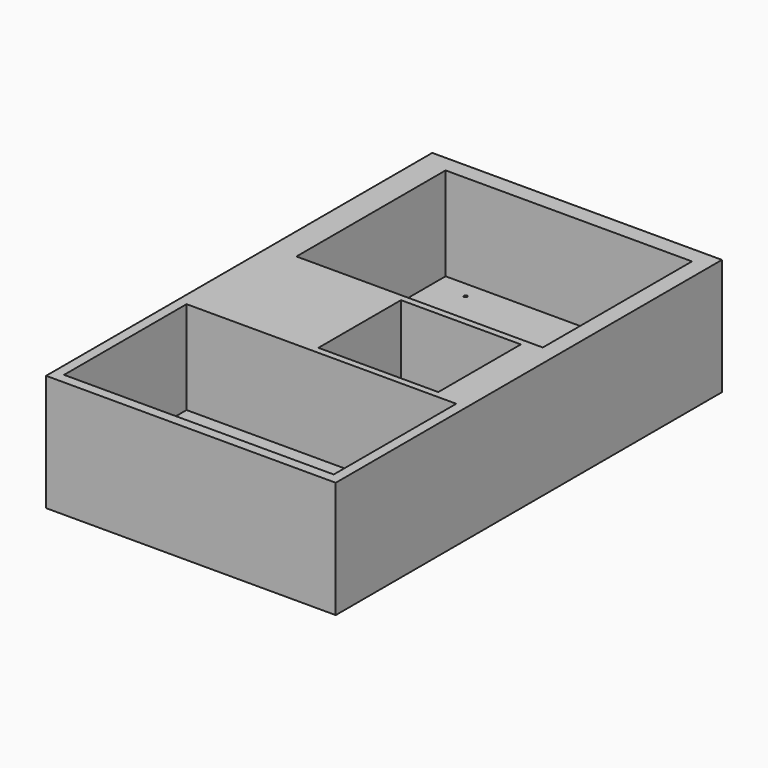
from build123d import *

# Parameters (mm, degrees)
F0_W     = 87
F0_H     = 145
F1_DEPTH = 35
F2_W     = 74
F2_H     = 56
F2_W_2   = 36
F2_H_2   = 31
F2_W_3   = 81
F2_H_3   = 46
F3_DEPTH = 28
F4_D     = 1
F4_DEPTH = 3
F4_START = 28
F4_TIP   = 0.3004303095


with BuildPart() as f1:
    # F0 (on Top) → F1 (new body)
    with BuildSketch(Plane.XY):
        Rectangle(F0_W, F0_H)
    extrude(amount=F1_DEPTH)

    # F2 (on face) → F3 (cut)
    with BuildSketch(Plane.XY.offset(35)):
        with Locations((1.5, 39.5)):
            Rectangle(F2_W, F2_H)
        with Locations((15.5, -6)):
            Rectangle(F2_W_2, F2_H_2)
        with Locations((0, -46.5)):
            Rectangle(F2_W_3, F2_H_3)
    extrude(amount=-F3_DEPTH, mode=Mode.SUBTRACT)

    # F4
    # its depths count from where the whole tool has entered the part; down to there all is cleared
    with Locations(Plane.XY.offset(35)):
        with Locations((-25.5, 62.5)):
            Hole(F4_D / 2, depth=F4_START)
    with Locations(Plane.XY.offset(35).offset(-F4_START)):
        with Locations((-25.5, 62.5)):
            Hole(F4_D / 2, depth=F4_DEPTH)
            with Locations((0, 0, -(F4_DEPTH + F4_TIP / 2))):  # 118° drill point
                Cone(0, F4_D / 2, F4_TIP, mode=Mode.SUBTRACT)


solid = f1.part
